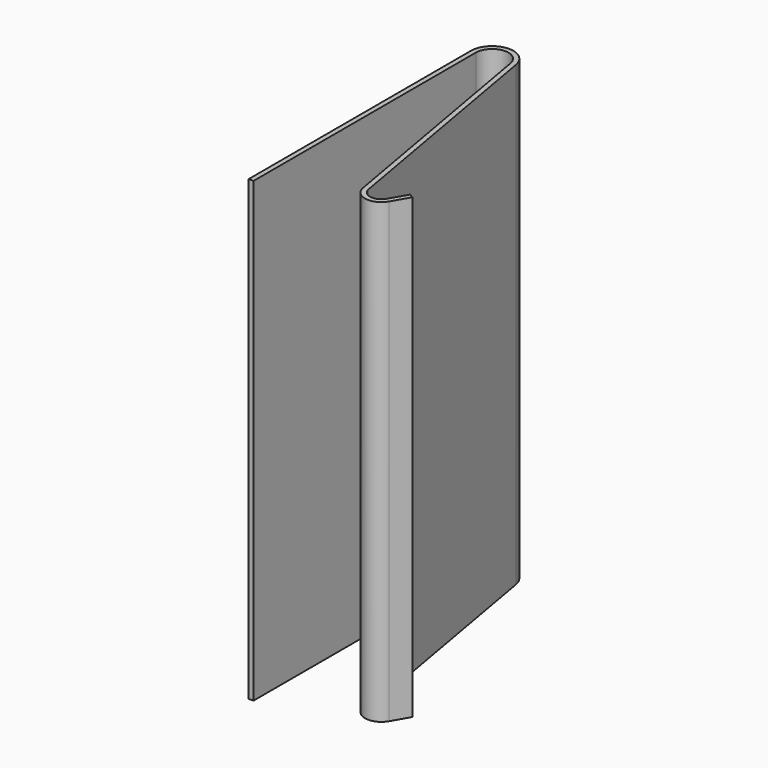
from build123d import *

# Parameters (mm, degrees)
F1_DEPTH = 140


with BuildPart() as f1:
    # F0 (on Top) → F1 (new body)
    with BuildSketch(Plane.XY):
        with BuildLine():
            Line((-1.5, 0), (0, 0))
            Line((0, 0), (0, 85))
            ThreePointArc((0, 85), (4.564221, 89.980973), (9.924039, 85.868241))
            Line((9.924039, 85.868241), (22.679454, 13.528685))
            ThreePointArc((22.679454, 13.528685), (26.735252, 9.472887), (31.93362, 11.896926))
            Line((31.93362, 11.896926), (34.93362, 17.093079))
            Line((34.93362, 17.093079), (33.634582, 17.843079))
            Line((33.634582, 17.843079), (30.634582, 12.646926))
            ThreePointArc((30.634582, 12.646926), (26.995724, 10.950099), (24.156666, 13.789158))
            Line((24.156666, 13.789158), (11.40125, 86.128713))
            ThreePointArc((11.40125, 86.128713), (4.433488, 91.475266), (-1.5, 85))
            Line((-1.5, 85), (-1.5, 0))
        make_face()
    extrude(amount=F1_DEPTH)


solid = f1.part
